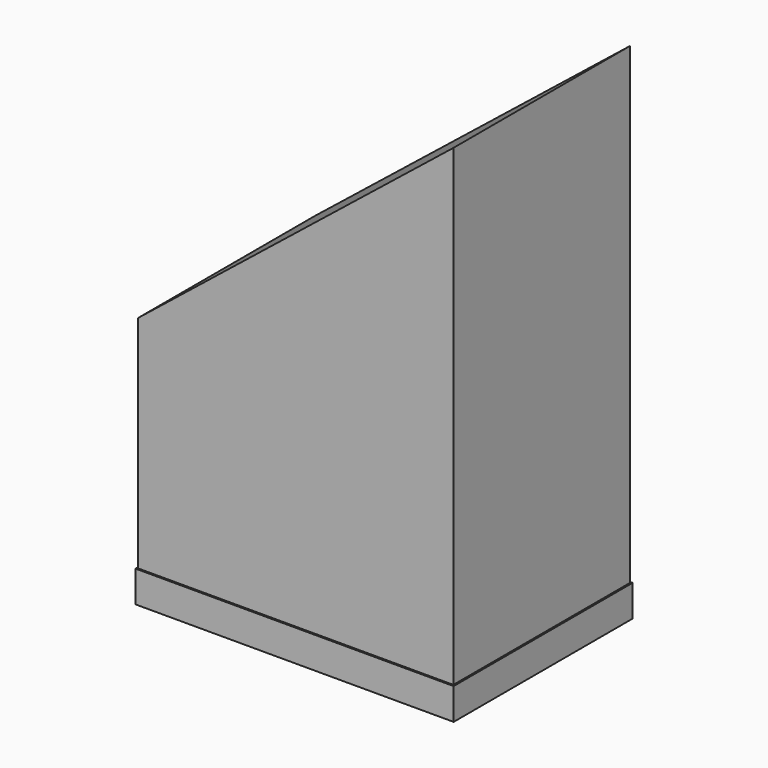
from build123d import *

# Parameters (mm, degrees)
SKETCH_W        = 10.1
SKETCH_H        = 7.1
PAD_DEPTH       = 1
SKETCH001_W     = 10
SKETCH001_H     = 7
PAD001_DEPTH    = 15
POCKET_DEPTH    = 7.051
SKETCH003_W     = 6
SKETCH003_H     = 4
POCKET001_DEPTH = 8


with BuildPart() as part:
    # Sketch → Pad (new body)
    with BuildSketch(Plane.XY):
        Rectangle(SKETCH_W, SKETCH_H)
    extrude(amount=PAD_DEPTH)

    # Sketch001 → Pad001 (new body)
    with BuildSketch(Plane.XY.offset(1)):
        Rectangle(SKETCH001_W, SKETCH001_H)
    extrude(amount=PAD001_DEPTH)

    # Sketch002 → Pocket (cut, through all)
    with BuildSketch(Plane.XZ.offset(3.5)):
        Polygon((5, 16), (-20, 16), (-20, -4), align=None)
    extrude(amount=-POCKET_DEPTH, mode=Mode.SUBTRACT)

    # Sketch003 → Pocket001 (cut)
    with BuildSketch(Plane(origin=(0, 0, 0), x_dir=(1, 0, 0), z_dir=(0, 0, -1))):
        Rectangle(SKETCH003_W, SKETCH003_H)
    extrude(amount=-POCKET001_DEPTH, mode=Mode.SUBTRACT)


solid = part.part
